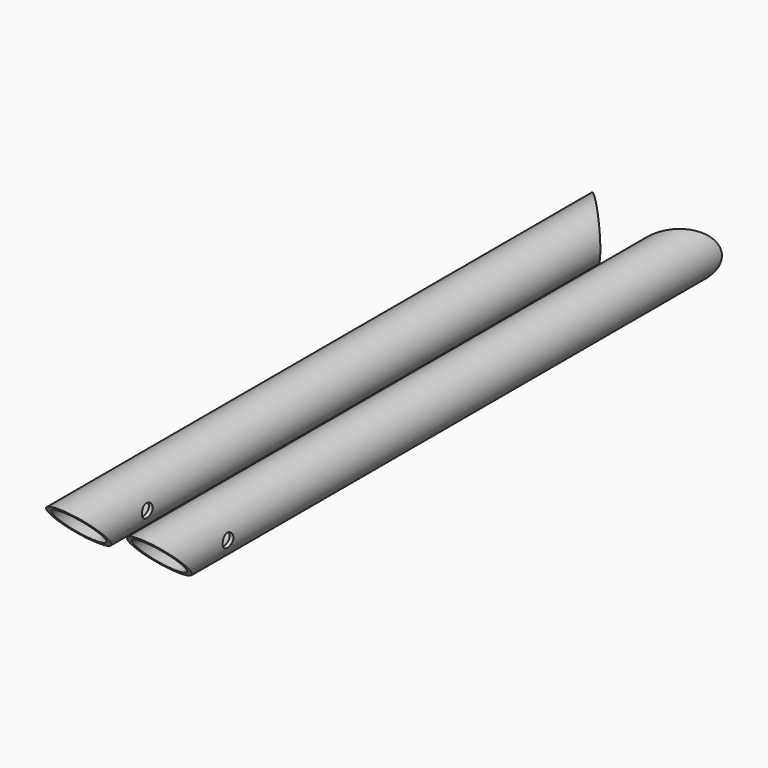
from build123d import *

# Parameters (mm, degrees)
F0_R      = 24.13
F0_R_2    = 20.447
F1_DEPTH  = 355.6
F2_R      = 24.13
F2_R_2    = 20.447
F3_DEPTH  = 355.6
F5_DEPTH  = 152.4
F7_DEPTH  = 76.2
F9_DEPTH  = 76.2
F10_R     = 6.35
F11_DEPTH = 152.4


with BuildPart() as f1:
    # F0 (on Front) → F1 (new body, symmetric)
    with BuildSketch(Plane.XZ):
        Circle(F0_R)
        Circle(F0_R_2, mode=Mode.SUBTRACT)
    extrude(amount=F1_DEPTH, both=True)


with BuildPart() as f3:
    # F2 (on Front) → F3 (new body, symmetric)
    with BuildSketch(Plane.XZ):
        with Locations((-76.2, 0)):
            Circle(F2_R)
        with Locations((-76.2, 0)):
            Circle(F2_R_2, mode=Mode.SUBTRACT)
    extrude(amount=F3_DEPTH, both=True)


with BuildPart() as f5_tool:
    # F4 (on Right) → F5 (new body, symmetric)
    with BuildSketch(Plane.YZ):
        Polygon((-156.6048606801, -148.1951393199), (-304.8, 0), (-400.4833865581, 95.6833865581), (-522.7957103763, 95.6833865581), (-522.7957103763, -148.1951393199), align=None)
    extrude(amount=F5_DEPTH, both=True)


with BuildPart() as f1_1:
    add(f1.part)

    # F5: cut by f5_tool
    add(f5_tool.part, mode=Mode.SUBTRACT)

    # F6 (on Top) → F7 (cut, symmetric)
    with BuildSketch(Plane.XY):
        Polygon((-76.2, 228.6), (0, 304.8), (76.2, 381), (76.2, 508), (-76.2, 508), align=None)
    extrude(amount=F7_DEPTH, both=True, mode=Mode.SUBTRACT)


with BuildPart() as f3_1:
    add(f3.part)

    # F5: cut by f5_tool
    add(f5_tool.part, mode=Mode.SUBTRACT)

    # F8 (on Top) → F9 (cut, symmetric)
    with BuildSketch(Plane.XY):
        Polygon((-152.4, 381), (-76.2, 304.8), (0, 228.6), (0, 508), (-152.4, 508), align=None)
    extrude(amount=F9_DEPTH, both=True, mode=Mode.SUBTRACT)


with BuildPart() as f11_tool:
    # F10 (on Right) → F11 (new body, symmetric)
    with BuildSketch(Plane.YZ):
        with Locations((-254, 0)):
            Circle(F10_R)
    extrude(amount=F11_DEPTH, both=True)


with BuildPart() as f1_2:
    add(f1_1.part)

    # F11: cut by f11_tool
    add(f11_tool.part, mode=Mode.SUBTRACT)


with BuildPart() as f3_2:
    add(f3_1.part)

    # F11: cut by f11_tool
    add(f11_tool.part, mode=Mode.SUBTRACT)


solid = Compound([f1_2.part, f3_2.part])
